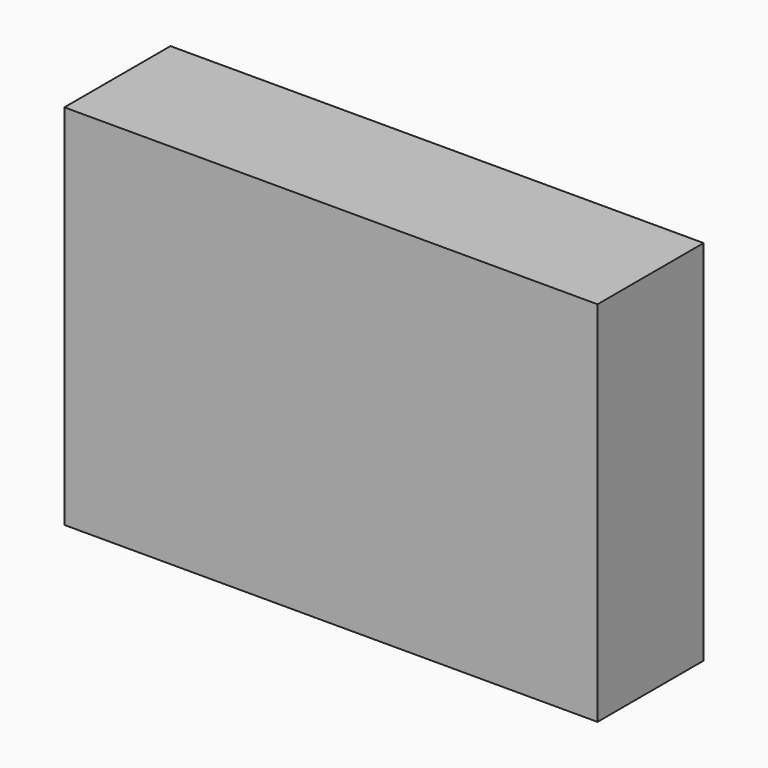
from build123d import *

# Parameters (mm, degrees)
F0_W     = 35.7764363289
F0_H     = 36.0236987472
F1_DEPTH = 25.4


with BuildPart() as f1:
    # F0 (on Front) → F1 (new body)
    with BuildSketch(Plane.XZ):
        Polygon((-25.5451928824, 36.0236987472), (-47.9875579476, 36.0236987472), (-47.9875579476, -34.3969650567), (54.1248694062, -34.3969650567), (54.1248694062, 36.0236987472), (35.7764363289, 36.0236987472), (35.7764363289, 0), (0, 0), (0, -16.1161720753), (-25.5451928824, -16.1161720753), align=None)
        Polygon((0, 36.0236987472), (-25.5451928824, 36.0236987472), (-25.5451928824, -16.1161720753), (0, -16.1161720753), (0, 0), align=None)
        with Locations((17.8882181644, 18.0118493736)):
            Rectangle(F0_W, F0_H)
    extrude(amount=F1_DEPTH)


solid = f1.part
